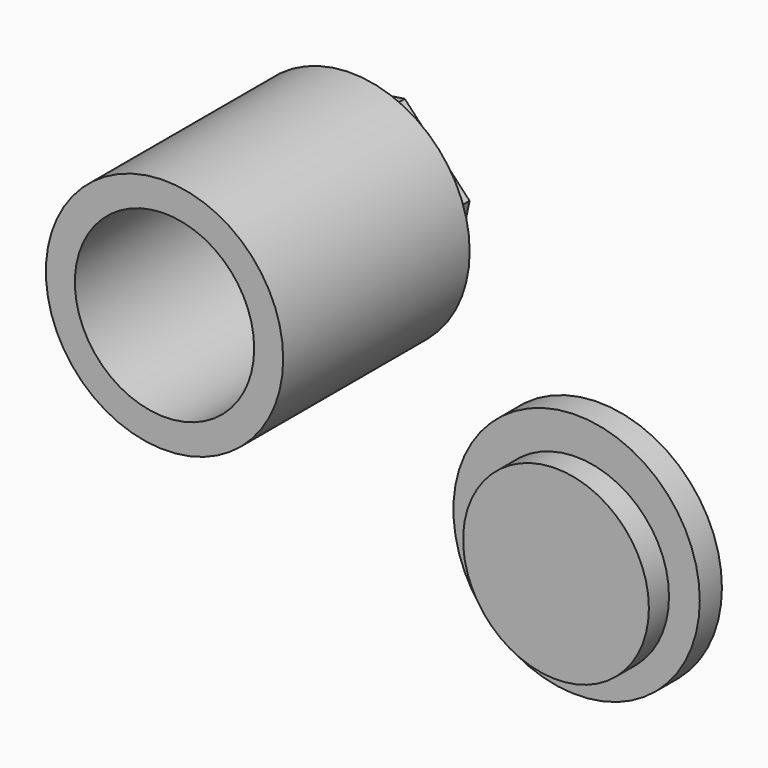
from build123d import *

# Parameters (mm, degrees)
F0_R     = 35.943467
F0_R_2   = 27.155122
F1_DEPTH = 70.612
F3_DEPTH = 6.604
F4_R     = 37.314114
F5_DEPTH = 8.382
F6_R     = 28.136915
F7_DEPTH = 16.002
F8_R     = 5.772947
F8_R_2   = 5.690523
F9_DEPTH = 14.732


with BuildPart() as f1:
    # F0 (on Front) → F1 (new body)
    with BuildSketch(Plane.XZ):
        with Locations((-35.169233, 37.367307)):
            Circle(F0_R)
        with Locations((-35.169233, 37.367307)):
            Circle(F0_R_2, mode=Mode.SUBTRACT)
    extrude(amount=F1_DEPTH)

    # F2 (on Front) → F3 (join)
    with BuildSketch(Plane.XZ):
        Polygon((-24.170674, 67.261152), (-49.375292, 63.451156), (-65.201446, 46.452694), (-59.632983, 20.07577), (-36.479905, 6.301154), (-10.102982, 20.07577), (-4.534521, 46.452694), align=None)
    extrude(amount=-F3_DEPTH)


with BuildPart() as f5:
    # F4 (on Front) → F5 (new body)
    with BuildSketch(Plane.XZ):
        with Locations((39.865295, -27.453179)):
            Circle(F4_R)
    extrude(amount=F5_DEPTH)

    # F6 (on Front) → F7 (join)
    with BuildSketch(Plane.XZ):
        with Locations((39.720099, -29.454231)):
            Circle(F6_R)
    extrude(amount=F7_DEPTH)

    # F8 (on Front) → F9 (join)
    with BuildSketch(Plane.XZ):
        with Locations((32.115912, -20.468854)):
            Circle(F8_R)
        with Locations((52.209612, -35.315771)):
            Circle(F8_R_2)
    extrude(amount=-F9_DEPTH)


solid = Compound([f1.part, f5.part])
